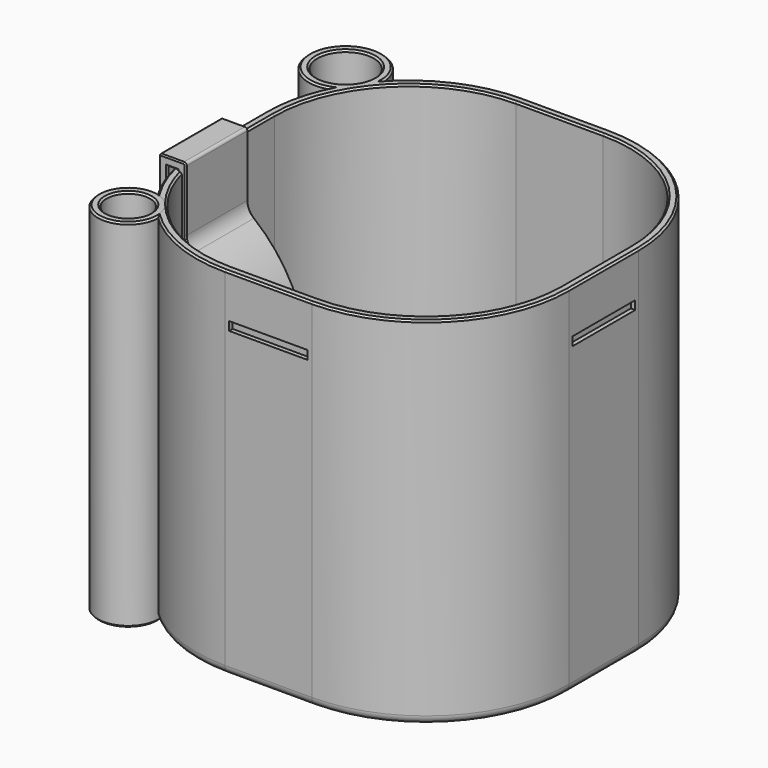
from build123d import *

# Parameters (mm, degrees)
PAD001_DEPTH       = 18
PAD003_DEPTH       = 18
CHAMFER_SIZE       = 0.3
SKETCH006_R        = 8.5
PAD004_DEPTH       = 82
THICKNESS001_T     = -2
CHAMFER002_SIZE    = 0.4
PAD_DEPTH          = 80
THICKNESS_T        = 2
SKETCH001_W        = 18
SKETCH001_H        = 2
POCKET_DEPTH       = 1
POLARPATTERN_COUNT = 4
HOLE_D             = 5
HOLE_DEPTH         = 25
HOLE_CSINK_D       = 8
HOLE_CSINK_ANGLE   = 90
CHAMFER001_SIZE    = 0.4
SKETCH007_R        = 7
PAD005_DEPTH       = 82
THICKNESS002_T     = -2
CHAMFER003_SIZE    = 0.4


with BuildPart() as wing:
    # Sketch002 → Pad001 (new body)
    with BuildSketch(Plane.XZ):
        with BuildLine():
            Line((-45.057864, 81.5), (-45.057864, 69))
            ThreePointArc((-45.057864, 69), (-44.882128, 68.575736), (-44.457864, 68.4))
            Line((-44.457864, 68.4), (-42.857864, 68.4))
            ThreePointArc((-42.857864, 68.4), (-42.4336, 68.575736), (-42.257864, 69))
            Line((-42.257864, 69), (-42.257864, 69.4))
            Line((-42.257864, 69.4), (-43.057864, 69.4))
            Line((-43.057864, 69.4), (-43.057864, 80.1))
            Line((-43.057864, 80.1), (-40.857864, 80.1))
            Line((-40.857864, 80.1), (-40.857864, 68.4))
            Line((-40.857864, 68.4), (-38.857864, 68.4))
            Line((-38.857864, 68.4), (-38.857864, 81.5))
            ThreePointArc((-38.857864, 81.5), (-39.0336, 81.924264), (-39.457864, 82.1))
            Line((-39.457864, 82.1), (-44.457864, 82.1))
            ThreePointArc((-44.457864, 82.1), (-44.882128, 81.924264), (-45.057864, 81.5))
        make_face()
    extrude(amount=PAD001_DEPTH)

    # Sketch003 → Pad003 (join)
    with BuildSketch(Plane(origin=(0, 0, 0.2), x_dir=(1, 0, 0), z_dir=(0, -1, 0))):
        with BuildLine():
            Line((-38.857864, 67.2), (-38.857864, 68.2))
            Line((-38.857864, 68.2), (-40.857864, 68.2))
            ThreePointArc((-40.857864, 68.2), (-40.321277, 65.94657), (-38.826685, 64.176805))
            ThreePointArc((-38.857864, 12.656924), (-25.827146, 38.408988), (-38.826685, 64.176805))
            ThreePointArc((-38.857864, 12.656924), (-38.944559, 12.086695), (-38.37433, 12))
            ThreePointArc((-38.37433, 12), (-25.017751, 37.785152), (-37.353461, 64.07398))
            ThreePointArc((-38.857864, 67.2), (-38.462194, 65.465409), (-37.353461, 64.07398))
        make_face()
    extrude(amount=PAD003_DEPTH)

    # Chamfer
    chamfer_edges = [wing.edges().sort_by_distance(p)[0] for p in [
        (-45.057864, -18, 75.25),
        (-44.882128, -18, 68.575736),
        (-43.657864, -18, 68.4),
        (-42.4336, -18, 68.575736),
        (-42.257864, -18, 69.2),
        (-42.657864, -18, 69.4),
        (-43.057864, -18, 74.75),
        (-41.957864, -18, 80.1),
        (-40.857864, -18, 74.25),
        (-40.321277, -18, 66.14657),
        (-25.827146, -18, 38.608988),
        (-38.944559, -18, 12.286695),
        (-25.017751, -18, 37.985152),
        (-38.462194, -18, 65.665409),
        (-38.857864, -18, 74.45),
        (-39.0336, -18, 81.924264),
        (-41.957864, -18, 82.1),
        (-44.882128, -18, 81.924264),
        (-45.057864, 0, 75.25),
        (-44.882128, 0, 81.924264),
        (-41.957864, 0, 82.1),
        (-39.0336, 0, 81.924264),
        (-38.857864, 0, 74.45),
        (-38.462194, 0, 65.665409),
        (-25.017751, 0, 37.985152),
        (-38.944559, 0, 12.286695),
        (-25.827146, 0, 38.608988),
        (-40.321277, 0, 66.14657),
        (-40.857864, 0, 74.25),
        (-41.957864, 0, 80.1),
        (-43.057864, 0, 74.75),
        (-42.657864, 0, 69.4),
        (-42.257864, 0, 69.2),
        (-42.4336, 0, 68.575736),
        (-43.657864, 0, 68.4),
        (-44.882128, 0, 68.575736),
    ]]
    chamfer(chamfer_edges, length=CHAMFER_SIZE)


with BuildPart() as pen_holder:
    # Sketch006 → Pad004 (new body)
    with BuildSketch(Plane.XY.offset(-2)):
        with Locations((-42.390853, 32.357864)):
            Circle(SKETCH006_R)
    extrude(amount=PAD004_DEPTH)

    # Thickness001
    thickness001_openings = [pen_holder.faces().sort_by_distance(p)[0] for p in [
        (-42.390853, 32.357864, 80),
    ]]
    offset(amount=THICKNESS001_T, openings=thickness001_openings)

    # Chamfer002
    chamfer002_edges = [pen_holder.edges().sort_by_distance(p)[0] for p in [
        (-50.890853, 32.357864, -2),
        (-50.890853, 32.357864, 80),
        (-48.890853, 32.357864, 80),
    ]]
    chamfer(chamfer002_edges, length=CHAMFER002_SIZE)


with BuildPart() as fusion:
    # Sketch → Pad (new body)
    with BuildSketch(Plane.XY):
        with BuildLine():
            Line((-40.857864, 10), (-40.857864, -10))
            ThreePointArc((-40.857864, -10), (-31.819805, -31.819805), (-10, -40.857864))
            Line((-10, -40.857864), (10, -40.857864))
            ThreePointArc((10, -40.857864), (31.819805, -31.819805), (40.857864, -10))
            Line((40.857864, -10), (40.857864, 10))
            ThreePointArc((40.857864, 10), (31.819805, 31.819805), (10, 40.857864))
            Line((10, 40.857864), (-10, 40.857864))
            ThreePointArc((-10, 40.857864), (-31.819805, 31.819805), (-40.857864, 10))
        make_face()
    extrude(amount=PAD_DEPTH)

    # Thickness
    thickness_openings = [fusion.faces().sort_by_distance(p)[0] for p in [
        (0, 0, 80),
    ]]
    offset(amount=THICKNESS_T, openings=thickness_openings)

    # Sketch001 (on Face13 of Thickness) → Pocket (cut)
    with BuildSketch(Plane.XZ.offset(42.857864)):
        with Locations((0, 69)):
            Rectangle(SKETCH001_W, SKETCH001_H)
    pocket = extrude(amount=-POCKET_DEPTH, mode=Mode.SUBTRACT)

    # PolarPattern: Pocket ×4 about axis
    polarpattern_axis = Axis((0, 0, 0), (0, 0, 1))
    for i in range(1, POLARPATTERN_COUNT):
        add(pocket.rotate(polarpattern_axis, i * 360 / POLARPATTERN_COUNT), mode=Mode.SUBTRACT)

    # Hole
    with Locations(Plane.XY):
        with Locations((-20, 0), (20, 0)):
            CounterSinkHole(HOLE_D / 2, HOLE_CSINK_D / 2, depth=HOLE_DEPTH, counter_sink_angle=HOLE_CSINK_ANGLE)

    # Chamfer001
    chamfer001_edges = [fusion.edges().sort_by_distance(p)[0] for p in [
        (-40.857864, 0, 80),
        (-31.819805, 31.819805, 80),
        (0, 40.857864, 80),
        (31.819805, 31.819805, 80),
        (40.857864, 0, 80),
        (31.819805, -31.819805, 80),
        (0, -40.857864, 80),
        (-31.819805, -31.819805, 80),
        (0, 42.857864, 80),
        (-33.234019, 33.234019, 80),
        (-42.857864, 0, 80),
        (-33.234019, -33.234019, 80),
        (0, -42.857864, 80),
        (33.234019, -33.234019, 80),
        (42.857864, 0, 80),
        (33.234019, 33.234019, 80),
    ]]
    chamfer(chamfer001_edges, length=CHAMFER001_SIZE)

    # Fusion: union pen holder
    add(pen_holder.part)


with BuildPart() as clipper_holder:
    # Sketch007 → Pad005 (new body)
    with BuildSketch(Plane.XY.offset(-2)):
        with Locations((-39.394221, -33.857864)):
            Circle(SKETCH007_R)
    extrude(amount=PAD005_DEPTH)

    # Thickness002
    thickness002_openings = [clipper_holder.faces().sort_by_distance(p)[0] for p in [
        (-39.394221, -33.857864, 80),
    ]]
    offset(amount=THICKNESS002_T, openings=thickness002_openings)

    # Chamfer003
    chamfer003_edges = [clipper_holder.edges().sort_by_distance(p)[0] for p in [
        (-46.394221, -33.857864, -2),
        (-46.394221, -33.857864, 80),
        (-44.394221, -33.857864, 80),
    ]]
    chamfer(chamfer003_edges, length=CHAMFER003_SIZE)


solid = Compound([wing.part, fusion.part, clipper_holder.part])
